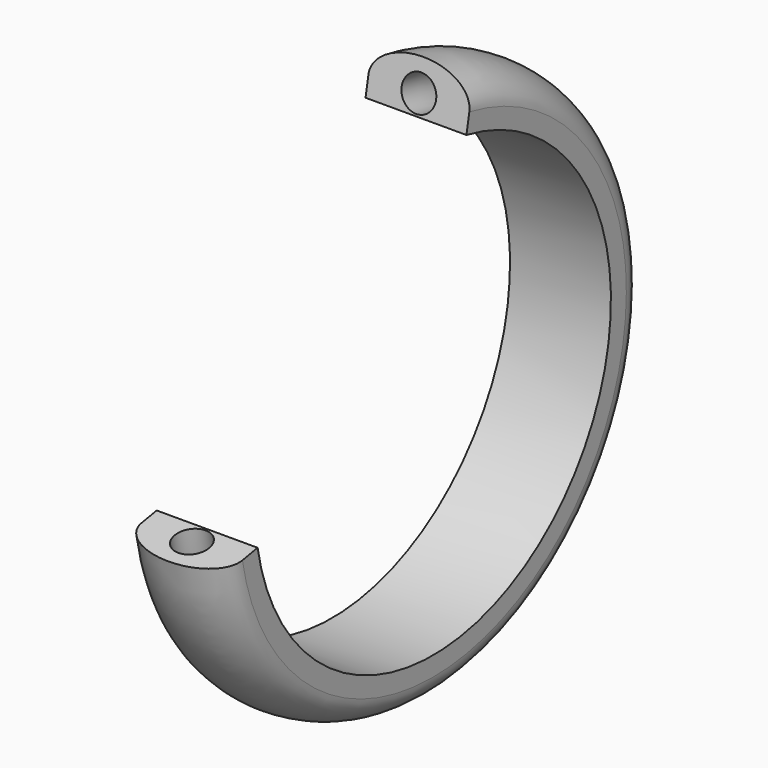
from build123d import *


with BuildPart() as f3:
    # F3: sweep along a path in F2
    with BuildLine(Plane.YZ) as f3_path:
        ThreePointArc((-1.0634572891, 12.1553724367), (-119.1290182748, 49.8632085144), (-83.1765347934, -68.7486649386))
    # F0 (on Top) → F3 (sweep)
    with BuildSketch(Plane.XY):
        with BuildLine():
            add(Edge.make_bspline(
                [(14.6060865372, 0), (14.6060865372, 8.7539134547), (0, 8.7539134547)],
                knots=[3.1415926536, 3.1415926536, 3.1415926536, 4.7123889804, 4.7123889804, 4.7123889804], degree=2, weights=[1, 0.7071067812, 1]))
            add(Edge.make_bspline(
                [(0, 8.7539134547), (-14.6060865372, 8.7539134547), (-14.6060865372, 0)],
                knots=[1.5707963268, 1.5707963268, 1.5707963268, 3.1415926536, 3.1415926536, 3.1415926536], degree=2, weights=[1, 0.7071067812, 1]))
            Line((-14.6060865372, 0), (-5, 0))
            ThreePointArc((-5, 0), (0, 5), (5, 0))
            Line((5, 0), (14.6060865372, 0))
        make_face()
        with BuildLine():
            Line((-5, 0), (-14.6060865372, 0))
            Line((-14.6060865372, 0), (-14.6060865372, -5.5730552413))
            Line((-14.6060865372, -5.5730552413), (14.6060865372, -5.5730552413))
            Line((14.6060865372, -5.5730552413), (14.6060865372, 0))
            Line((14.6060865372, 0), (5, 0))
            ThreePointArc((5, 0), (0, -5), (-5, 0))
        make_face()
    sweep(path=f3_path.line)


solid = f3.part
